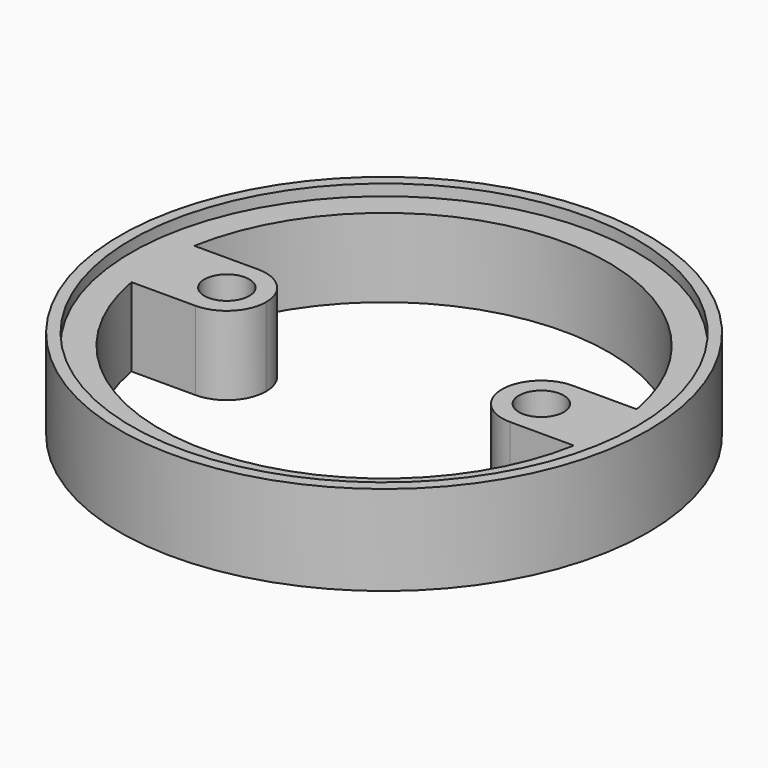
from build123d import *

# Parameters (mm, degrees)
F0_R     = 22.5
F1_DEPTH = 7
F0_R_2   = 23.5
F2_DEPTH = 8
F3_D     = 4


with BuildPart() as f1:
    # F0 (on Top) → F1 (new body)
    with BuildSketch(Plane.XY):
        Circle(F0_R)
        with BuildLine():
            ThreePointArc((19.691369, 3.5), (19.922693, 1.756791), (20, 0))
            ThreePointArc((20, 0), (19.922693, -1.756791), (19.691369, -3.5))
            ThreePointArc((19.691369, -3.5), (0, -20), (-19.691369, -3.5))
            ThreePointArc((-19.691369, -3.5), (-20, 0), (-19.691369, 3.5))
            ThreePointArc((-19.691369, 3.5), (0, 20), (19.691369, 3.5))
        make_face(mode=Mode.SUBTRACT)
        with BuildLine():
            Line((-14, 3.5), (-19.691369, 3.5))
            ThreePointArc((-19.691369, 3.5), (-20, 0), (-19.691369, -3.5))
            Line((-19.691369, -3.5), (-14, -3.5))
            ThreePointArc((-14, -3.5), (-17.5, 0), (-14, 3.5))
        make_face()
        with BuildLine():
            ThreePointArc((-10.5, 0), (-11.525126, 2.474874), (-14, 3.5))
            ThreePointArc((-14, 3.5), (-17.5, 0), (-14, -3.5))
            ThreePointArc((-14, -3.5), (-11.525126, -2.474874), (-10.5, 0))
        make_face()
        with BuildLine():
            ThreePointArc((17.5, 0), (16.474874, 2.474874), (14, 3.5))
            ThreePointArc((14, 3.5), (10.5, 0), (14, -3.5))
            ThreePointArc((14, -3.5), (16.474874, -2.474874), (17.5, 0))
        make_face()
        with BuildLine():
            ThreePointArc((19.691369, -3.5), (19.922693, -1.756791), (20, 0))
            ThreePointArc((20, 0), (19.922693, 1.756791), (19.691369, 3.5))
            Line((19.691369, 3.5), (14, 3.5))
            ThreePointArc((14, 3.5), (16.474874, 2.474874), (17.5, 0))
            ThreePointArc((17.5, 0), (16.474874, -2.474874), (14, -3.5))
            Line((14, -3.5), (19.691369, -3.5))
        make_face()
    extrude(amount=F1_DEPTH)

    # F0 (on Top) → F2 (join)
    with BuildSketch(Plane.XY):
        Circle(F0_R_2)
        Circle(F0_R, mode=Mode.SUBTRACT)
    extrude(amount=F2_DEPTH)

    # F3 (through all)
    with Locations(Plane(origin=(0, 0, 0), x_dir=(1, 0, 0), z_dir=(0, 0, -1))):
        with Locations((-14, 0), (14, 0)):
            Hole(F3_D / 2)


solid = f1.part
